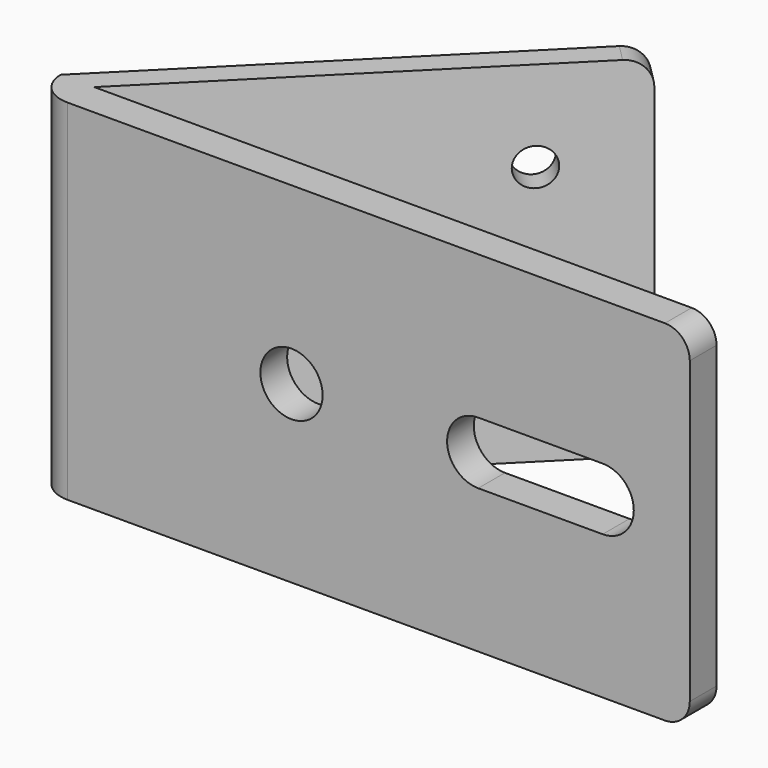
from build123d import *

# Parameters (mm, degrees)
F1_DEPTH = 71.374
F2_R     = 5.08
F3_R     = 6.35
F4_DEPTH = 25.4
F5_DEPTH = 25.4
F6_R     = 3.81
F7_DEPTH = 25.4


with BuildPart() as f1:
    # F0 (on Top) → F1 (new body)
    with BuildSketch(Plane.XY):
        with BuildLine():
            Line((98.164037795, 0), (0, 0))
            Line((0, 0), (-28.835962205, 0))
            Line((-28.835962205, 0), (34.664037795, 63.5))
            Line((34.664037795, 63.5), (31.251540469, 66.912497326))
            Line((31.251540469, 66.912497326), (-35.660956857, 0))
            ThreePointArc((-35.660956857, 0), (-33.661962205, -4.826), (-28.835962205, -6.824994652))
            Line((-28.835962205, -6.824994652), (98.164037795, -6.824994652))
            Line((98.164037795, -6.824994652), (98.164037795, 0))
        make_face()
    extrude(amount=-F1_DEPTH)

    # F2
    f2_edges = [f1.edges().sort_by_distance(p)[0] for p in [
        (32.957789, 65.206249, 0),
        (32.957789, 65.206249, -71.374),
        (98.164038, -3.412497, 0),
        (98.164038, -3.412497, -71.374),
    ]]
    fillet(f2_edges, radius=F2_R)

    # F3 (on face) → F4 (cut)
    with BuildSketch(Plane(origin=(0, 0, 0), x_dir=(-1, 0, 0), z_dir=(0, 1, 0))):
        with Locations((-16.884037795, -35.687)):
            Circle(F3_R)
    extrude(amount=-F4_DEPTH, mode=Mode.SUBTRACT)

    # F3 (on face) → F5 (cut)
    with BuildSketch(Plane(origin=(0, 0, 0), x_dir=(-1, 0, 0), z_dir=(0, 1, 0))):
        with Locations((-16.884037795, -35.687)):
            Circle(F3_R)
        with BuildLine():
            ThreePointArc((-54.984037795, -42.037), (-48.634037795, -35.687), (-54.984037795, -29.337))
            Line((-54.984037795, -29.337), (-80.384037795, -29.337))
            ThreePointArc((-80.384037795, -29.337), (-86.734037795, -35.687), (-80.384037795, -42.037))
            Line((-80.384037795, -42.037), (-54.984037795, -42.037))
        make_face()
    extrude(amount=-F5_DEPTH, mode=Mode.SUBTRACT)

    # F6 (on face) → F7 (cut)
    with BuildSketch(Plane(origin=(-17.8304784285, 17.8304784285, 0), x_dir=(-0.7071067812, -0.7071067812, 0), z_dir=(-0.7071067812, 0.7071067812, 0))):
        with Locations((-50.3624567935, -53.9462038157)):
            Circle(F6_R)
        with Locations((-50.3624567935, -18.4293880287)):
            Circle(F6_R)
    extrude(amount=-F7_DEPTH, mode=Mode.SUBTRACT)


solid = f1.part
